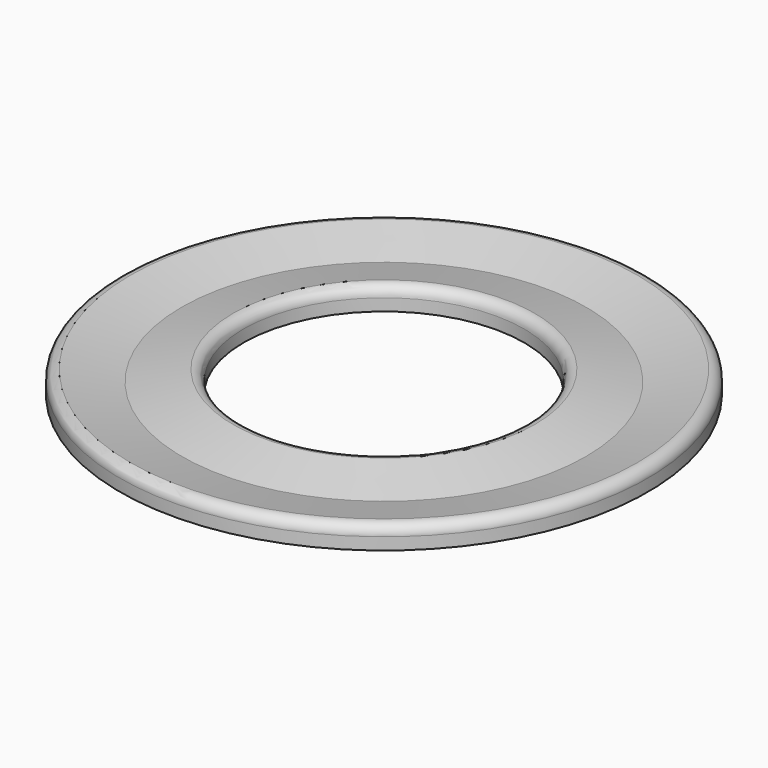
from build123d import *


with BuildPart() as f1:
    # F0 (on Front) → F1 (revolve)
    with BuildSketch(Plane.XZ):
        with BuildLine():
            Line((-47, 0), (-25, 0))
            Line((-25, 0), (-25, 2.153316))
            ThreePointArc((-25, 2.153316), (-25.540882, 3.45912), (-26.846686, 4.000002))
            Line((-26.846686, 4.000002), (-36, 2))
            Line((-36, 2), (-45.153314, 3.999998))
            ThreePointArc((-45.153314, 3.999998), (-46.459118, 3.459117), (-47, 2.153313))
            Line((-47, 2.153313), (-47, 0))
        make_face()
    revolve(axis=Axis((0, 0, 2), (0, 0, 1)))


solid = f1.part
